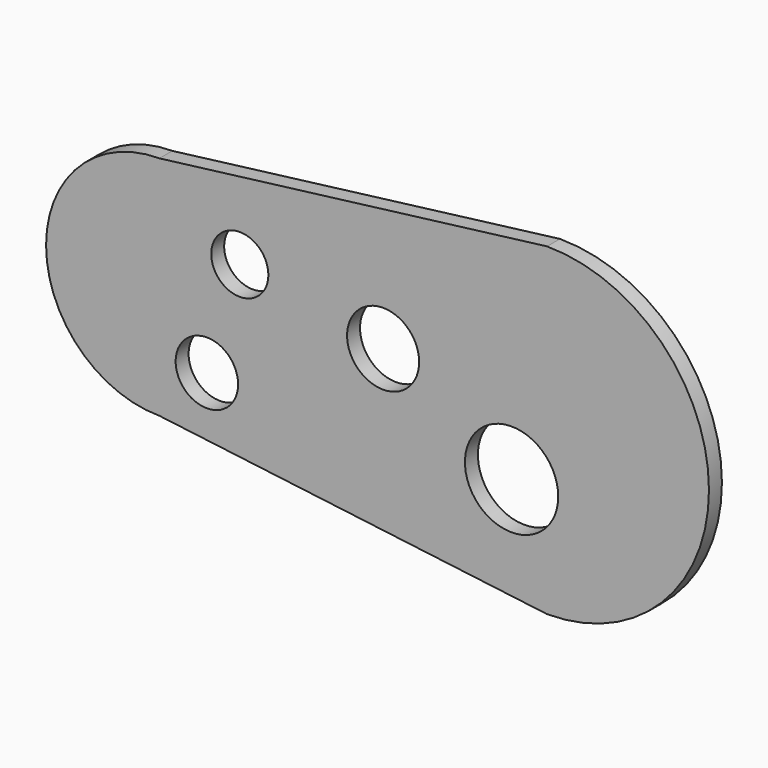
from build123d import *

# Parameters (mm, degrees)
F0_R     = 19.287364
F0_R_2   = 28.809999
F0_R_3   = 17.645493
F0_R_4   = 22.258245
F1_DEPTH = 10


with BuildPart() as f1:
    # F0 (on Front) → F1 (new body)
    with BuildSketch(Plane.XZ):
        with BuildLine():
            Line((-239.466578, -70), (0, -100))
            ThreePointArc((0, -100), (100, 0), (0, 100))
            Line((0, 100), (-239.466578, 70))
            ThreePointArc((-239.466578, 70), (-309.466578, 0), (-239.466578, -70))
        make_face()
        with Locations((-210.137784, -37.111226)):
            Circle(F0_R, mode=Mode.SUBTRACT)
        with Locations((-21.926105, -33.832278)):
            Circle(F0_R_2, mode=Mode.SUBTRACT)
        with Locations((-189.808294, 28.467754)):
            Circle(F0_R_3, mode=Mode.SUBTRACT)
        with Locations((-101.276673, 11.417218)):
            Circle(F0_R_4, mode=Mode.SUBTRACT)
    extrude(amount=F1_DEPTH)


solid = f1.part
